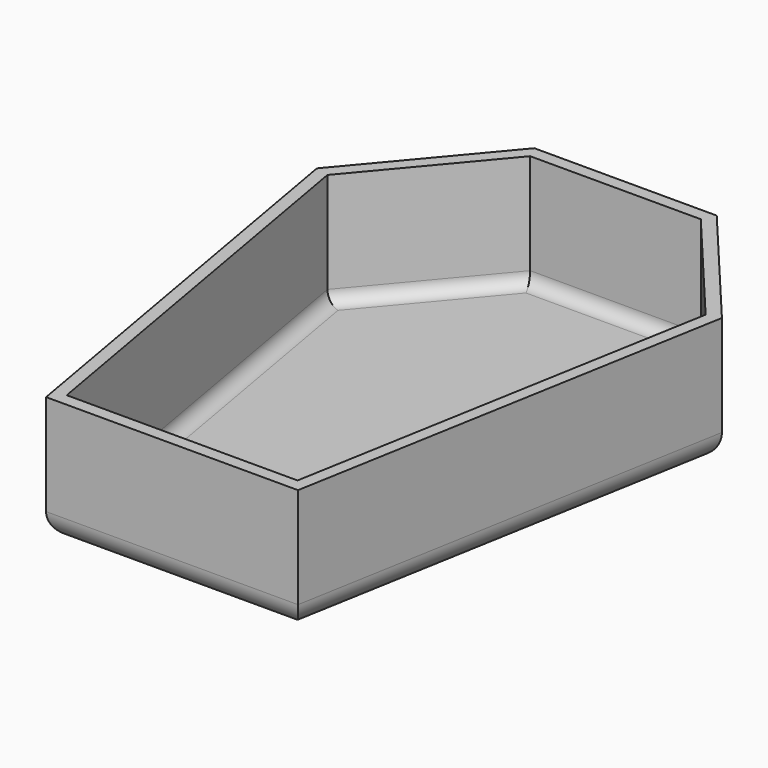
from build123d import *

# Parameters (mm, degrees)
F1_DEPTH = 25.4
F2_R     = 5.08
F3_T     = -2.54


with BuildPart() as f1:
    # F0 (on Top) → F1 (new body)
    with BuildSketch(Plane.XY):
        Polygon((-13.158648, 54.746445), (-35.605059, 27.995854), (-20.167736, -59.553555), (30.632264, -59.553555), (46.069587, 27.995854), (23.623176, 54.746445), align=None)
    extrude(amount=F1_DEPTH)

    # F2
    f2_edges = [f1.edges().sort_by_distance(p)[0] for p in [
        (-27.886397, -15.77885, 0),
        (5.232264, -59.553555, 0),
        (38.350926, -15.77885, 0),
        (34.846382, 41.37115, 0),
        (5.232264, 54.746445, 0),
        (-24.381853, 41.37115, 0),
    ]]
    fillet(f2_edges, radius=F2_R)

    # F3
    f3_openings = [f1.faces().sort_by_distance(p)[0] for p in [
        (5.232264, -1.206794, 25.4),
    ]]
    offset(amount=F3_T, openings=f3_openings)


solid = f1.part
